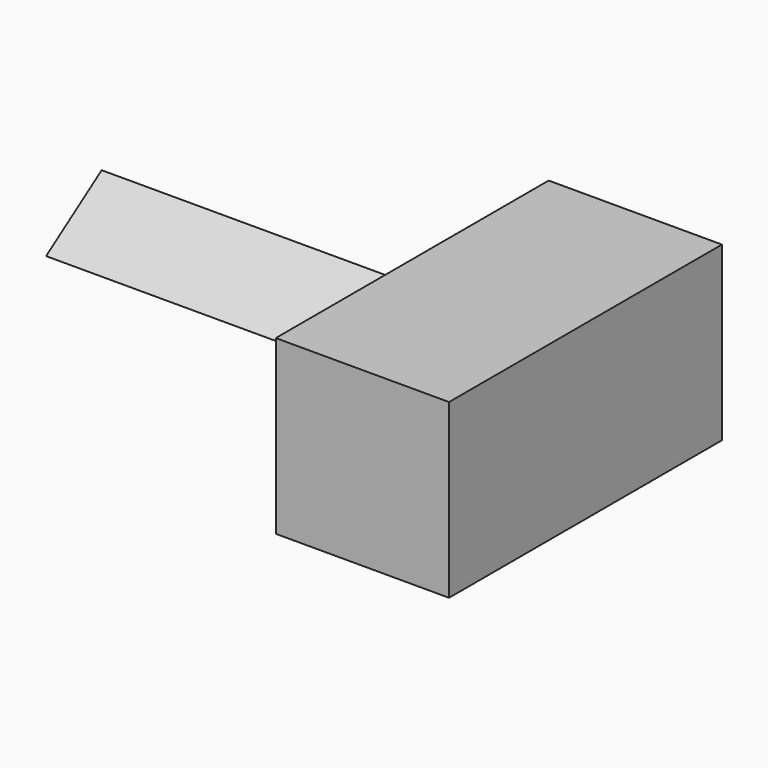
from build123d import *

# Parameters (mm, degrees)
F0_W     = 72.286244
F0_H     = 142.31351
F1_DEPTH = 71.90489
F3_DEPTH = 138.338402


with BuildPart() as f1:
    # F0 (on Top) → F1 (new body)
    with BuildSketch(Plane.XY):
        with Locations((-13.483634, 71.156755)):
            Rectangle(F0_W, F0_H)
    extrude(amount=F1_DEPTH)

    # F2 (on face) → F3 (join)
    with BuildSketch(Plane(origin=(-49.626756, 0, 0), x_dir=(0, -1, 0), z_dir=(-1, 0, 0))):
        Polygon((-116.111115, 20.826526), (-82.114689, 20.826526), (-53.130683, 35.416469), (-82.114689, 55.189714), align=None)
    extrude(amount=F3_DEPTH)


solid = f1.part
